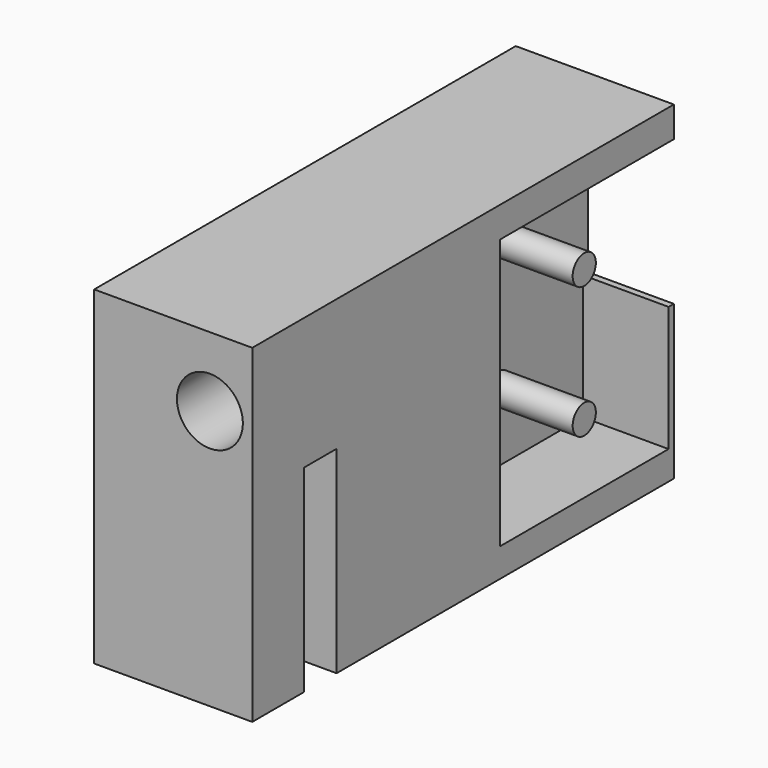
from build123d import *

# Parameters (mm, degrees)
F1_DEPTH = 12
F2_R     = 1.1
F3_DEPTH = 6.5
F4_R     = 2.5
F5_DEPTH = 25
F7_DEPTH = 32


with BuildPart() as f1:
    # F0 (on Right) → F1 (new body)
    with BuildSketch(Plane.YZ):
        Polygon((35.1, -0.075058), (-4.9, -0.075058), (-4.9, -25.075058), (0, -25.075058), (0, -10.075058), (3.1, -10.075058), (3.1, -25.075058), (35.1, -25.075058), align=None)
    extrude(amount=F1_DEPTH)

    # F2 (on face) → F3 (cut)
    with BuildSketch(Plane.YZ.offset(12)):
        Polygon((34.6, -2.396713), (18.6, -2.396713), (18.6, -22.896713), (34.6, -22.896713), (34.6, -13.396713), (38.479045, -13.396713), (38.479045, -2.396713), align=None)
        with Locations((26.6, -17.646713)):
            Circle(F2_R, mode=Mode.SUBTRACT)
        with Locations((26.6, -7.646713)):
            Circle(F2_R, mode=Mode.SUBTRACT)
    extrude(amount=-F3_DEPTH, mode=Mode.SUBTRACT)

    # F4 (on face) → F5 (cut)
    with BuildSketch(Plane(origin=(0, 18.6, 0), x_dir=(-1, 0, 0), z_dir=(0, 1, 0))):
        with Locations((-8.783709, -5.351877)):
            Circle(F4_R)
    extrude(amount=-F5_DEPTH, mode=Mode.SUBTRACT)

    # F6 (on face) → F7 (cut, through all)
    with BuildSketch(Plane(origin=(0, 35.1, 0), x_dir=(-1, 0, 0), z_dir=(0, 1, 0))):
        Polygon((1.341271, -20.075058), (-0.25, -20.075058), (-2.75, -22.575058), (-2.75, -25.075058), (1.341271, -25.075058), align=None)
        Polygon((1.341271, -20.075058), (-0.25, -20.075058), (-2.75, -22.575058), (-2.75, -25.075058), (1.341271, -25.075058), align=None)
        Polygon((1.341271, -20.075058), (-0.25, -20.075058), (-2.75, -22.575058), (-2.75, -25.075058), (1.341271, -25.075058), align=None)
    extrude(amount=-F7_DEPTH, mode=Mode.SUBTRACT)


solid = f1.part
